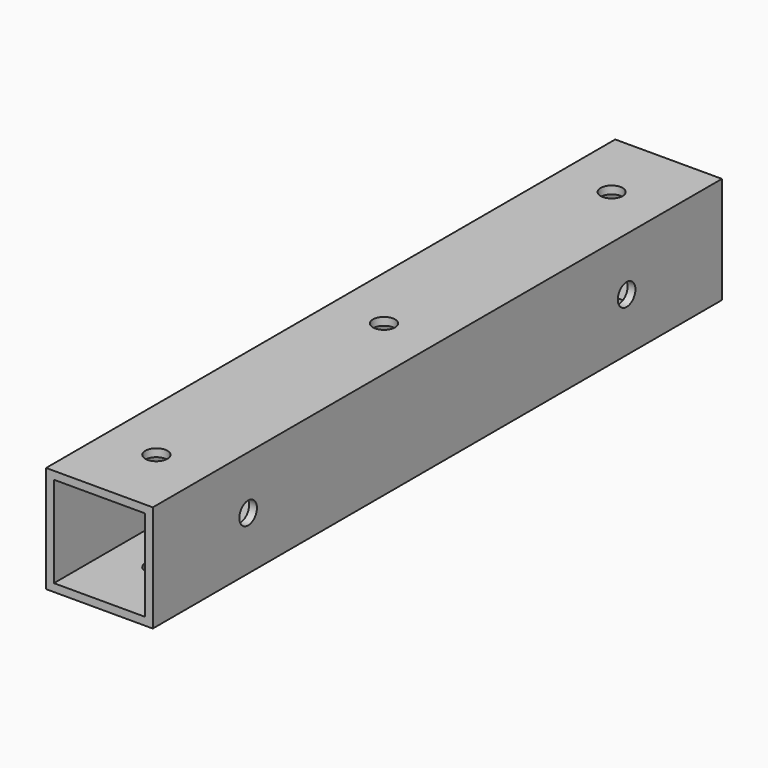
from build123d import *

# Parameters (mm, degrees)
F0_W     = 30
F0_H     = 30
F0_W_2   = 25.6
F0_H_2   = 25.6
F1_DEPTH = 200
F2_R     = 3.1
F3_DEPTH = 35
F4_R     = 3.1
F5_DEPTH = 35


with BuildPart() as f1:
    # F0 (on Front) → F1 (new body)
    with BuildSketch(Plane.XZ):
        with Locations((15, 15)):
            Rectangle(F0_W, F0_H)
        with Locations((15, 15)):
            Rectangle(F0_W_2, F0_H_2, mode=Mode.SUBTRACT)
    extrude(amount=F1_DEPTH)

    # F2 (on face) → F3 (cut)
    with BuildSketch(Plane.XY.offset(30)):
        with Locations((15, -20)):
            Circle(F2_R)
        with Locations((15, -100)):
            Circle(F2_R)
        with Locations((15, -180)):
            Circle(F2_R)
    extrude(amount=-F3_DEPTH, mode=Mode.SUBTRACT)

    # F4 (on face) → F5 (cut)
    with BuildSketch(Plane.YZ.offset(30)):
        with Locations((-166.5, 15)):
            Circle(F4_R)
        with Locations((-33.5, 15)):
            Circle(F4_R)
    extrude(amount=-F5_DEPTH, mode=Mode.SUBTRACT)


solid = f1.part
